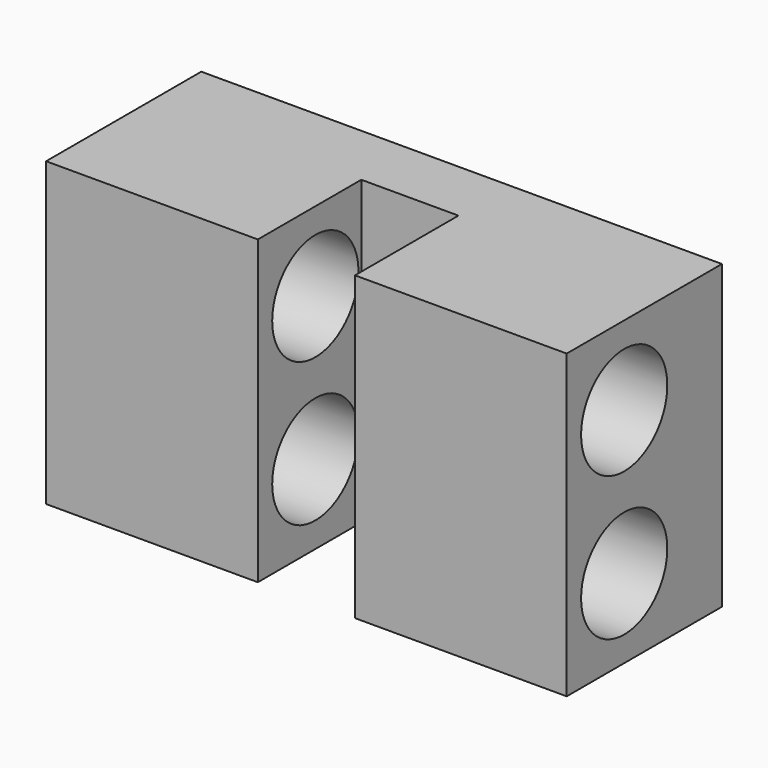
from build123d import *

# Parameters (mm, degrees)
F0_W     = 362.293
F0_H     = 210
F1_DEPTH = 135
F2_R     = 40
F3_DEPTH = 40
F5_DEPTH = 210.001
F6_R     = 37.5
F7_DEPTH = 362.294


with BuildPart() as f1:
    # F0 (on Front) → F1 (new body)
    with BuildSketch(Plane.XZ):
        Rectangle(F0_W, F0_H)
    extrude(amount=-F1_DEPTH)

    # F2 (on face) → F3 (join)
    with BuildSketch(Plane(origin=(0, 135, 0), x_dir=(-1, 0, 0), z_dir=(0, 1, 0))):
        Circle(F2_R)
    extrude(amount=F3_DEPTH)

    # F4 (on face) → F5 (cut, through all)
    with BuildSketch(Plane(origin=(0, 0, -105), x_dir=(1, 0, 0), z_dir=(0, 0, -1))):
        Polygon((0, 0), (-33.8, 0), (-33.8, -90), (33.8, -90), (33.8, 0), align=None)
    extrude(amount=-F5_DEPTH, mode=Mode.SUBTRACT)

    # F6 (on face) → F7 (cut, through all)
    with BuildSketch(Plane(origin=(-181.1465, 0, 0), x_dir=(0, -1, 0), z_dir=(-1, 0, 0))):
        with Locations((-50, 50)):
            Circle(F6_R)
        with Locations((-50, -50)):
            Circle(F6_R)
    extrude(amount=-F7_DEPTH, mode=Mode.SUBTRACT)


solid = f1.part
